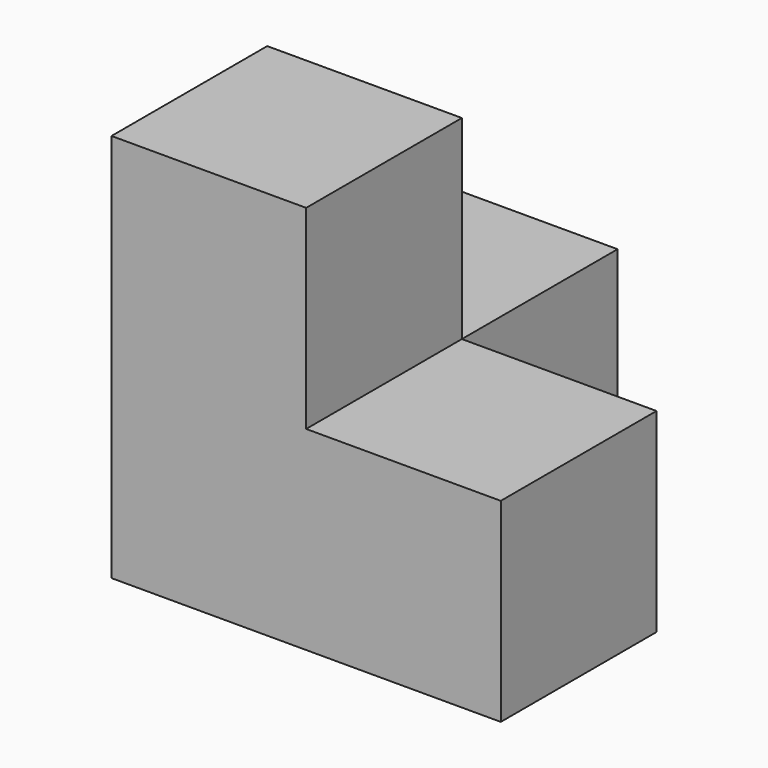
from build123d import *

# Parameters (mm, degrees)
F0_W     = 19.05
F0_H     = 19.05
F1_DEPTH = 19.05
F2_DEPTH = 19.05


with BuildPart() as f1:
    # F0 (on Front) → F1 (new body, symmetric)
    with BuildSketch(Plane.XZ):
        with Locations((0, -19.05)):
            Rectangle(F0_W, F0_H)
    extrude(amount=F1_DEPTH, both=True)

    # F0 (on Front) → F2 (join)
    with BuildSketch(Plane.XZ):
        Rectangle(F0_W, F0_H)
        with Locations((0, -19.05)):
            Rectangle(F0_W, F0_H)
        with Locations((19.05, -19.05)):
            Rectangle(F0_W, F0_H)
    extrude(amount=F2_DEPTH)


solid = f1.part
